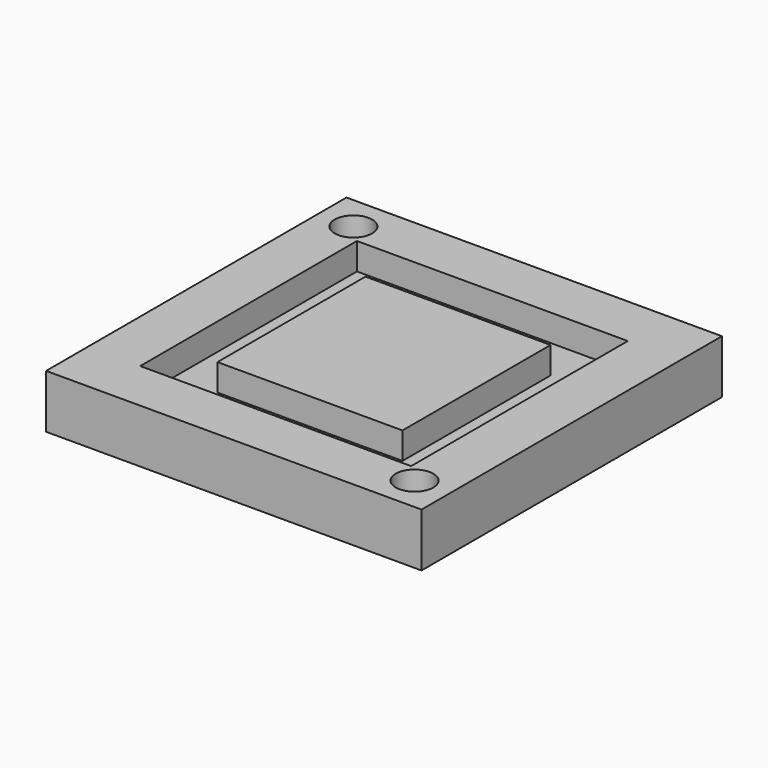
from build123d import *

# Parameters (mm, degrees)
F0_W     = 70
F0_H     = 70
F0_R     = 3.5
F1_DEPTH = 10
F2_W     = 50.5
F2_H     = 50.5
F2_W_2   = 34.5
F2_H_2   = 34.5
F3_DEPTH = 5


with BuildPart() as f1:
    # F0 (on Top) → F1 (new body)
    with BuildSketch(Plane.XY):
        Rectangle(F0_W, F0_H)
        with Locations((28.5, -28.5)):
            Circle(F0_R, mode=Mode.SUBTRACT)
        with Locations((-28.5, 28.5)):
            Circle(F0_R, mode=Mode.SUBTRACT)
    extrude(amount=F1_DEPTH)

    # F2 (on face) → F3 (cut)
    with BuildSketch(Plane.XY.offset(10)):
        Rectangle(F2_W, F2_H)
        Rectangle(F2_W_2, F2_H_2, mode=Mode.SUBTRACT)
    extrude(amount=-F3_DEPTH, mode=Mode.SUBTRACT)


solid = f1.part
